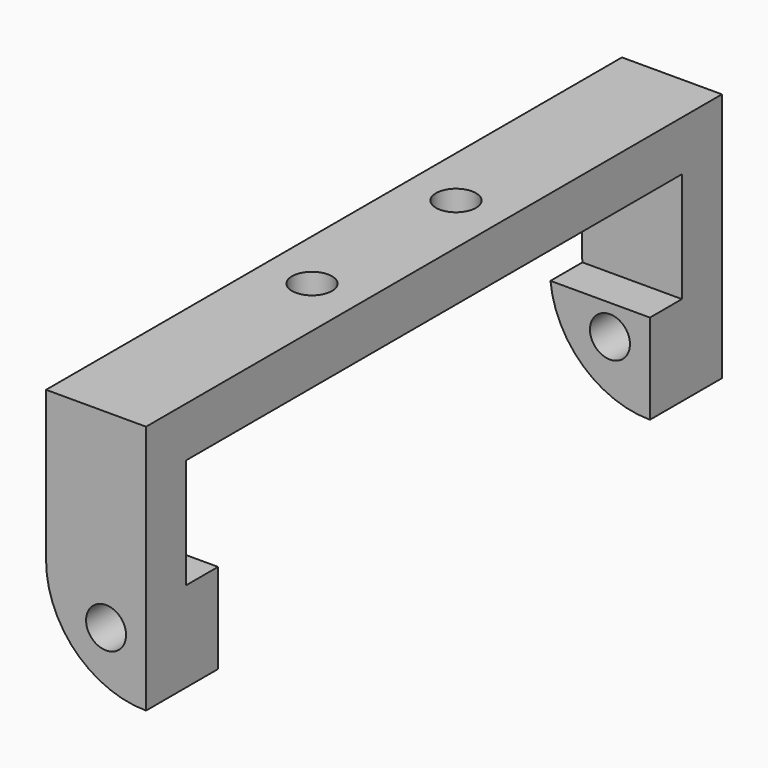
from build123d import *

# Parameters (mm, degrees)
CYLINDER016_R     = 2
CYLINDER016_DEPTH = 94
CYLINDER030_R     = 2
CYLINDER030_DEPTH = 10
CYLINDER029_R     = 2
CYLINDER029_DEPTH = 10
CYLINDER001_W     = 10
CYLINDER001_H     = 5
CYLINDER001_ANGLE = 90
BOX002_W          = 10
BOX002_H          = 54
BOX002_DEPTH      = 11
BOX001_W          = 10
BOX001_H          = 62
BOX001_DEPTH      = 11
BOX_W             = 10
BOX_H             = 72
BOX_DEPTH         = 25
CYLINDER_W        = 10
CYLINDER_H        = 5
CYLINDER_ANGLE    = 90
CYLINDER017_W     = 10
CYLINDER017_H     = 87
CYLINDER017_ANGLE = 90
BOX004_W          = 25
BOX004_H          = 72
BOX004_DEPTH      = 15


with BuildPart() as obj1:
    # Cylinder016 → Cylinder016 (new body)
    with BuildSketch(Plane(origin=(6, -47.35, 51), x_dir=(1, 0, 0), z_dir=(0, 1, 0))):
        Circle(CYLINDER016_R)
    extrude(amount=CYLINDER016_DEPTH)


with BuildPart() as m3cuts003:
    # Cylinder030 → Cylinder030 (new body)
    with BuildSketch(Plane(origin=(5, 9, 70), x_dir=(1, 0, 0), z_dir=(0, 0, 1))):
        Circle(CYLINDER030_R)
    extrude(amount=CYLINDER030_DEPTH)


with BuildPart() as m3cute001:
    # Cylinder029 → Cylinder029 (new body)
    with BuildSketch(Plane(origin=(5, -9, 70), x_dir=(1, 0, 0), z_dir=(0, 0, 1))):
        Circle(CYLINDER029_R)
    extrude(amount=CYLINDER029_DEPTH)

    # Fusion012: union m3Cuts003
    add(m3cuts003.part)


with BuildPart() as m3cute001_1:
    # Fusion012 placement: moved
    add(m3cute001.part.moved(Location((0, 0, -5))))


with BuildPart() as cylinder001:
    # Cylinder001 → Cylinder001 (revolve)
    with BuildSketch(Plane(origin=(10, -31, 55), x_dir=(-1, 0, 0), z_dir=(0, 0, 1))):
        with Locations((5, 2.5)):
            Rectangle(CYLINDER001_W, CYLINDER001_H)
    revolve(axis=Axis((10, -31, 55), (0, -1, 0)), revolution_arc=CYLINDER001_ANGLE)


with BuildPart() as in001:
    # Box002 → Box002 (new body)
    with BuildSketch(Plane(origin=(0, -27, 45), x_dir=(1, 0, 0), z_dir=(0, 0, 1))):
        with Locations((5, 27)):
            Rectangle(BOX002_W, BOX002_H)
    extrude(amount=BOX002_DEPTH)


with BuildPart() as in002:
    # Box001 → Box001 (new body)
    with BuildSketch(Plane(origin=(0, -31, 54), x_dir=(1, 0, 0), z_dir=(0, 0, 1))):
        with Locations((5, 31)):
            Rectangle(BOX001_W, BOX001_H)
    extrude(amount=BOX001_DEPTH)

    # Fusion: union in001
    add(in001.part)


with BuildPart() as cut:
    # Box → Box (new body)
    with BuildSketch(Plane(origin=(0, -36, 45), x_dir=(1, 0, 0), z_dir=(0, 0, 1))):
        with Locations((5, 36)):
            Rectangle(BOX_W, BOX_H)
    extrude(amount=BOX_DEPTH)

    # Cut: cut in002
    add(in002.part, mode=Mode.SUBTRACT)


with BuildPart() as lowbase:
    # Cylinder → Cylinder (revolve)
    with BuildSketch(Plane(origin=(10, 31, 55), x_dir=(0, 0, -1), z_dir=(1, 0, 0))):
        with Locations((5, 2.5)):
            Rectangle(CYLINDER_W, CYLINDER_H)
    revolve(axis=Axis((10, 31, 55), (0, 1, 0)), revolution_arc=CYLINDER_ANGLE)

    # Fusion001: union Cylinder001, Cut
    add(cylinder001.part)
    add(cut.part)

    # Cut003: cut m3Cute001
    add(m3cute001_1.part, mode=Mode.SUBTRACT)

    # Cut004: cut obj1
    add(obj1.part, mode=Mode.SUBTRACT)


with BuildPart() as include001:
    # Cylinder017 → Cylinder017 (revolve)
    with BuildSketch(Plane(origin=(10, -40.75, 55), x_dir=(0, 0, -1), z_dir=(1, 0, 0))):
        with Locations((5, 43.5)):
            Rectangle(CYLINDER017_W, CYLINDER017_H)
    revolve(axis=Axis((10, -40.75, 55), (0, 1, 0)), revolution_arc=CYLINDER017_ANGLE)


with BuildPart() as common:
    # Box004 → Box004 (new body)
    with BuildSketch(Plane(origin=(-15, -36, 55), x_dir=(1, 0, 0), z_dir=(0, 0, 1))):
        with Locations((12.5, 36)):
            Rectangle(BOX004_W, BOX004_H)
    extrude(amount=BOX004_DEPTH)

    # Fusion014: union include001
    add(include001.part)

    # Common: intersect lowBase
    add(lowbase.part, mode=Mode.INTERSECT)


solid = common.part
